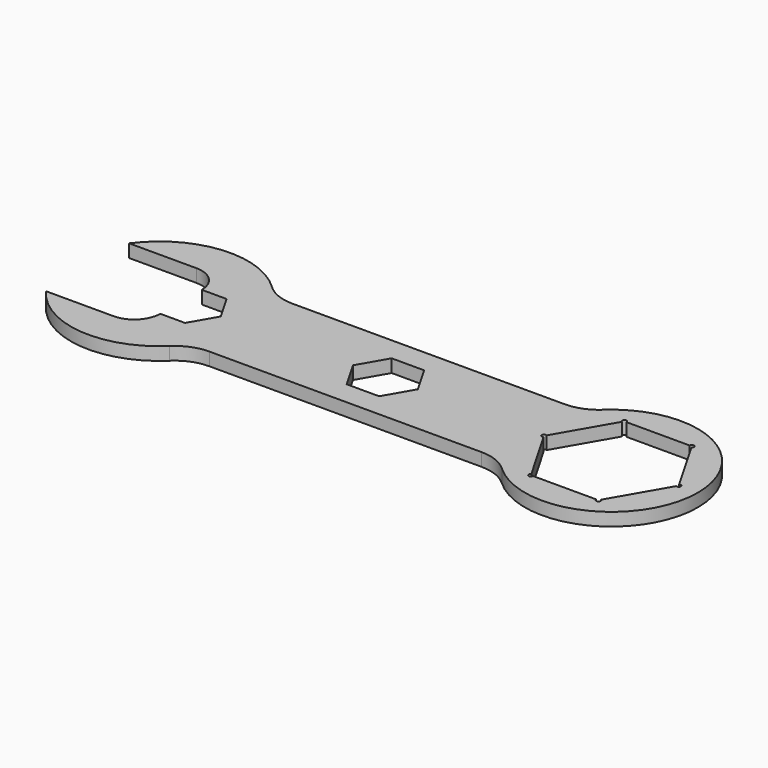
from build123d import *

# Parameters (mm, degrees)
F1_DEPTH = 3


with BuildPart() as f1:
    # F0 (on Top) → F1 (new body)
    with BuildSketch(Plane.XY):
        with BuildLine():
            ThreePointArc((31.853922, -12), (35.505406, -12.690507), (38.652615, -14.666667))
            ThreePointArc((38.652615, -14.666667), (72.25, 0), (38.652615, 14.666667))
            ThreePointArc((38.652615, 14.666667), (35.505406, 12.690507), (31.853922, 12))
            Line((31.853922, 12), (-31.12537, 12))
            ThreePointArc((-31.12537, 12), (-34.858254, 12.722847), (-38.051478, 14.786885))
            ThreePointArc((-38.051478, 14.786885), (-54.096213, 20.416697), (-68.87077, 12))
            Line((-68.87077, 12), (-53.269982, 12))
            ThreePointArc((-53.269982, 12), (-49.027342, 10.242641), (-47.269982, 6))
            Line((-47.269982, 6), (-41.535898, 6))
            Line((-41.535898, 6), (-38.071797, 0))
            Line((-38.071797, 0), (-41.535898, -6))
            Line((-41.535898, -6), (-47.269982, -6))
            ThreePointArc((-47.269982, -6), (-49.027342, -10.242641), (-53.269982, -12))
            Line((-53.269982, -12), (-68.87077, -12))
            ThreePointArc((-68.87077, -12), (-54.096213, -20.416697), (-38.051478, -14.786885))
            ThreePointArc((-38.051478, -14.786885), (-34.858254, -12.722847), (-31.12537, -12))
            Line((-31.12537, -12), (31.853922, -12))
        make_face()
        Polygon((-7.505553, 0), (-3.752777, 6.5), (3.752777, 6.5), (7.505553, 0), (3.752777, -6.5), (-3.752777, -6.5), align=None, mode=Mode.SUBTRACT)
        with BuildLine():
            ThreePointArc((44.205771, 13.066987), (44.205771, 13.933013), (44.955771, 13.5))
            Line((44.955771, 13.5), (59.544229, 13.5))
            ThreePointArc((59.544229, 13.5), (60.044229, 14), (60.544229, 13.5))
            ThreePointArc((60.544229, 13.5), (60.477241, 13.25), (60.294229, 13.066987))
            Line((60.294229, 13.066987), (67.588457, 0.433013))
            ThreePointArc((67.588457, 0.433013), (68.088457, 0.433013), (68.338457, 0))
            ThreePointArc((68.338457, 0), (68.088457, -0.433013), (67.588457, -0.433013))
            Line((67.588457, -0.433013), (60.294229, -13.066987))
            ThreePointArc((60.294229, -13.066987), (60.477241, -13.25), (60.544229, -13.5))
            ThreePointArc((60.544229, -13.5), (60.044229, -14), (59.544229, -13.5))
            Line((59.544229, -13.5), (44.955771, -13.5))
            ThreePointArc((44.955771, -13.5), (44.205771, -13.933013), (44.205771, -13.066987))
            Line((44.205771, -13.066987), (36.911543, -0.433013))
            ThreePointArc((36.911543, -0.433013), (36.161543, 0), (36.911543, 0.433013))
            Line((36.911543, 0.433013), (44.205771, 13.066987))
        make_face(mode=Mode.SUBTRACT)
    extrude(amount=F1_DEPTH)


solid = f1.part
